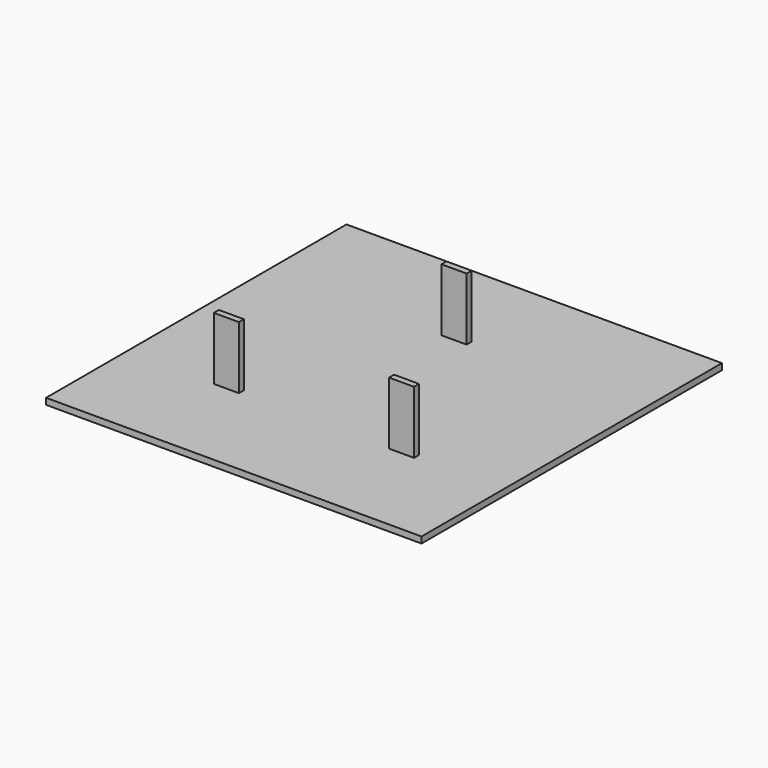
from build123d import *

# Parameters (mm, degrees)
F0_W     = 381
F0_H     = 381
F1_DEPTH = 6.35
F2_W     = 25.4
F2_H     = 6.35
F3_DEPTH = 63.5


with BuildPart() as f1:
    # F0 (on Top) → F1 (new body)
    with BuildSketch(Plane.XY):
        with Locations((-12.222726, 64.788732)):
            Rectangle(F0_W, F0_H)
    extrude(amount=F1_DEPTH)

    # F2 (on face) → F3 (join)
    with BuildSketch(Plane.XY.offset(6.35)):
        with Locations((-12.222726, 156.863732)):
            Rectangle(F2_W, F2_H)
        with Locations((76.677274, -20.936268)):
            Rectangle(F2_W, F2_H)
        with Locations((-101.122726, -20.936268)):
            Rectangle(F2_W, F2_H)
    extrude(amount=F3_DEPTH)


solid = f1.part
